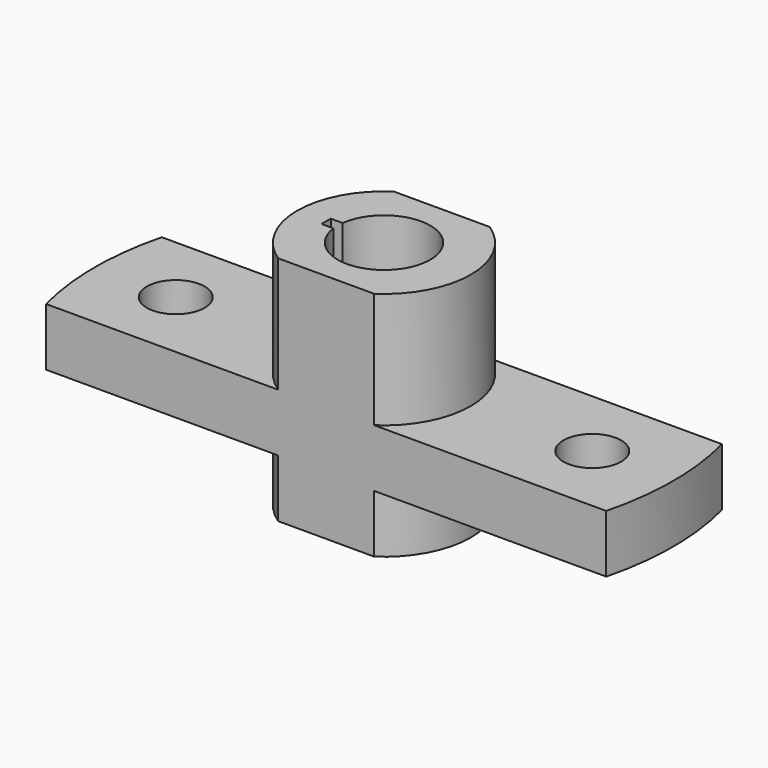
from build123d import *

# Parameters (mm, degrees)
F1_DEPTH = 40
F3_R     = 5
F4_DEPTH = 10


with BuildPart() as f1:
    # F0 (on Top) → F1 (new body)
    with BuildSketch(Plane.XY):
        with BuildLine():
            Line((8.291562, 12.5), (-8.291562, 12.5))
            ThreePointArc((-8.291562, 12.5), (-15, 0), (-8.291562, -12.5))
            Line((-8.291562, -12.5), (8.291562, -12.5))
            ThreePointArc((8.291562, -12.5), (15, 0), (8.291562, 12.5))
        make_face()
        with BuildLine():
            ThreePointArc((-7.937254, 1), (8, 0), (-7.937254, -1))
            Line((-7.937254, -1), (-10, -1))
            Line((-10, -1), (-10, 1))
            Line((-10, 1), (-7.937254, 1))
        make_face(mode=Mode.SUBTRACT)
    extrude(amount=F1_DEPTH)

    # F3 (on offset) → F4 (join)
    with BuildSketch(Plane.XY.offset(10)):
        with BuildLine():
            ThreePointArc((-8.291562, -12.5), (-15, 0), (-8.291562, 12.5))
            Line((-8.291562, 12.5), (-48.412292, 12.5))
            ThreePointArc((-48.412292, 12.5), (-50, 0), (-48.412292, -12.5))
            Line((-48.412292, -12.5), (-8.291562, -12.5))
        make_face()
        with Locations((-36, 0)):
            Circle(F3_R, mode=Mode.SUBTRACT)
        with BuildLine():
            Line((48.412292, 12.5), (8.291562, 12.5))
            ThreePointArc((8.291562, 12.5), (15, 0), (8.291562, -12.5))
            Line((8.291562, -12.5), (48.412292, -12.5))
            ThreePointArc((48.412292, -12.5), (50, 0), (48.412292, 12.5))
        make_face()
        with Locations((36, 0)):
            Circle(F3_R, mode=Mode.SUBTRACT)
    extrude(amount=F4_DEPTH)


solid = f1.part
